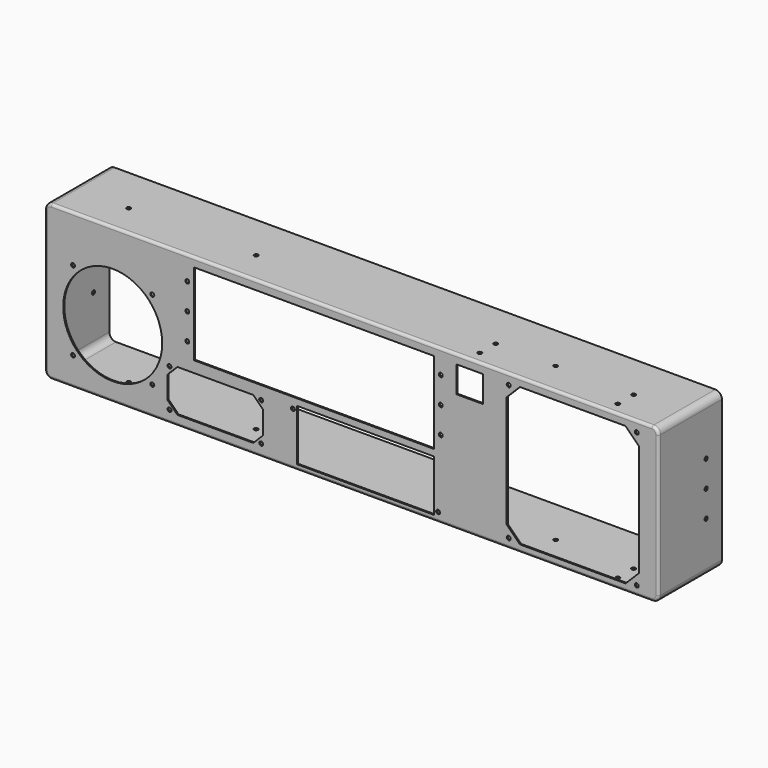
from build123d import *

# Parameters (mm, degrees)
F0_W      = 465
F0_H      = 117
F1_DEPTH  = 60
F2_T      = -1
F3_W      = 182
F3_H      = 62
F3_W_2    = 20
F3_H_2    = 20
F3_R      = 1.5
F3_R_2    = 37.5
F3_W_3    = 104
F3_H_3    = 39
F4_DEPTH  = 25
F5_R      = 5
F6_R      = 2
F7_R      = 1.5
F8_DEPTH  = 500
F9_R      = 1.5
F10_DEPTH = 117.0010001
F11_DEPTH = 2


with BuildPart() as f1:
    # F0 (on Front) → F1 (new body)
    with BuildSketch(Plane.XZ):
        with Locations((-12.6529467106, 27.1878533959)):
            Rectangle(F0_W, F0_H)
        with Locations((-12.6529467106, 27.1878533959)):
            Rectangle(F0_W, F0_H)
    extrude(amount=F1_DEPTH)

    # F2
    f2_openings = [f1.faces().sort_by_distance(p)[0] for p in [
        (-12.652947, 0, 27.187853),
    ]]
    offset(amount=F2_T, openings=f2_openings)

    # F3 (on face) → F4 (cut)
    with BuildSketch(Plane.XZ.offset(60)):
        with Locations((-41.1529467106, 47.6878533959)):
            Rectangle(F3_W, F3_H)
        with Locations((76.8470532894, 68.6878533959)):
            Rectangle(F3_W_2, F3_H_2)
        Polygon((194.8470532894, 79.1878533959), (114.8470532894, 79.1878533959), (104.8470532894, 69.1878533959), (104.8470532894, -15.8121466041), (114.8470532894, -25.8121466041), (194.8470532894, -25.8121466041), (204.8470532894, -15.8121466041), (204.8470532894, 69.1878533959), align=None)
        with Locations((54.8470532894, 67.6878533959)):
            Circle(F3_R)
        with Locations((54.8470532894, 47.6878533959)):
            Circle(F3_R)
        with Locations((54.8470532894, 27.6878533959)):
            Circle(F3_R)
        with Locations((106.3470532894, 77.6878533959)):
            Circle(F3_R)
        Polygon((-87.1529467106, 8.1878533959), (-144.6529467106, 8.1878533959), (-152.1529467106, 0.6878533959), (-152.1529467106, -16.3121466041), (-144.6529467106, -23.8121466041), (-87.1529467106, -23.8121466041), (-79.6529467106, -16.3121466041), (-79.6529467106, 0.6878533959), align=None)
        with Locations((-193.6529467106, 20.1878533959)):
            Circle(F3_R_2)
        with Locations((-137.1529467106, 67.6878533959)):
            Circle(F3_R)
        with Locations((-137.1529467106, 47.6878533959)):
            Circle(F3_R)
        with Locations((-137.1529467106, 27.6878533959)):
            Circle(F3_R)
        with Locations((-223.6529467106, 50.1878533959)):
            Circle(F3_R)
        with Locations((-223.6529467106, -9.8121466041)):
            Circle(F3_R)
        with Locations((-163.6529467106, -9.8121466041)):
            Circle(F3_R)
        with Locations((-163.6529467106, 50.1878533959)):
            Circle(F3_R)
        with Locations((-57.1529467106, 8.6878533959)):
            Circle(F3_R)
        with Locations((52.8470532894, -24.3121466041)):
            Circle(F3_R)
        with Locations((-2.1529467106, -7.8121466041)):
            Rectangle(F3_W_3, F3_H_3)
        with Locations((-150.6529467106, 6.6878533959)):
            Circle(F3_R)
        with Locations((-81.1529467106, 6.6878533959)):
            Circle(F3_R)
        with Locations((-150.6529467106, -22.3121466041)):
            Circle(F3_R)
        with Locations((-81.1529467106, -22.3121466041)):
            Circle(F3_R)
        with Locations((203.3470532894, 77.6878533959)):
            Circle(F3_R)
        with Locations((106.3470532894, -24.3121466041)):
            Circle(F3_R)
        with Locations((203.3470532894, -24.3121466041)):
            Circle(F3_R)
    extrude(amount=-F4_DEPTH, mode=Mode.SUBTRACT)

    # F5
    f5_edges = [f1.edges().sort_by_distance(p)[0] for p in [
        (-245.152947, -30, 85.687853),
        (219.847053, -30, 85.687853),
        (219.847053, -30, -31.312147),
        (-245.152947, -30, -31.312147),
        (-244.152947, -29.5, 84.687853),
        (-244.152947, -29.5, -30.312147),
        (218.847053, -29.5, -30.312147),
        (218.847053, -29.5, 84.687853),
    ]]
    fillet(f5_edges, radius=F5_R)

    # F6
    f6_edges = [f1.edges().sort_by_distance(p)[0] for p in [
        (218.382587, -60, 84.223387),
        (-12.652947, -59, 84.687853),
    ]]
    fillet(f6_edges, radius=F6_R)

    # F7 (on face) → F8 (cut)
    with BuildSketch(Plane(origin=(-245.1529467106, 0, 0), x_dir=(0, -1, 0), z_dir=(-1, 0, 0))):
        with Locations((15, 47.1878533959)):
            Circle(F7_R)
        with Locations((15, 7.1878533959)):
            Circle(F7_R)
        with Locations((15, 27.1878533959)):
            Circle(F7_R)
    extrude(amount=-F8_DEPTH, mode=Mode.SUBTRACT)

    # F9 (on face) → F10 (cut, through all)
    with BuildSketch(Plane.XY.offset(85.6878533959)):
        with Locations((-201.1529467106, -35.5)):
            Circle(F9_R)
        with Locations((-104.6529467106, -35.5)):
            Circle(F9_R)
        with Locations((122.3470532894, -35.5)):
            Circle(F9_R)
        with Locations((181.3470532894, -35.5)):
            Circle(F9_R)
        with Locations((181.3470532894, -50.5)):
            Circle(F9_R)
    extrude(amount=-F10_DEPTH, mode=Mode.SUBTRACT)

    # F9 (on face) → F11 (cut)
    with BuildSketch(Plane.XY.offset(85.6878533959)):
        with Locations((76.8470532894, -35.5)):
            Circle(F9_R)
        with Locations((76.8470532894, -50.5)):
            Circle(F9_R)
    extrude(amount=-F11_DEPTH, mode=Mode.SUBTRACT)


solid = f1.part
